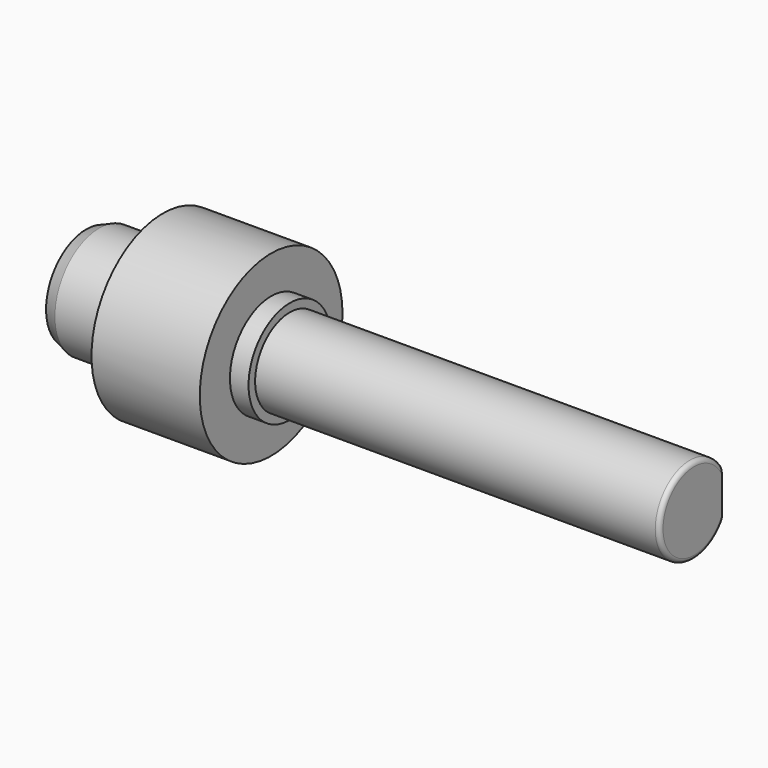
from build123d import *

# Parameters (mm, degrees)
F0_R      = 3.2512
F1_DEPTH  = 4.4958
F2_R      = 5.2324
F3_DEPTH  = 6.35
F4_R      = 3.0226
F5_DEPTH  = 1.0922
F6_R      = 2.54
F7_DEPTH  = 23.7236
F9_W      = 15.0368
F9_H      = 0.508
F10_DEPTH = 7.7734
F11_R     = 0.254
F12_R     = 3.2512
F13_DEPTH = 0.762
F14_R     = 2.9464
F15_DEPTH = 0.762


with BuildPart() as f1:
    # F0 (on Right) → F1 (new body)
    with BuildSketch(Plane.YZ):
        Circle(F0_R)
    extrude(amount=F1_DEPTH)

    # F2 (on face) → F3 (join)
    with BuildSketch(Plane.YZ.offset(4.4958)):
        Circle(F2_R)
    extrude(amount=F3_DEPTH)

    # F4 (on face) → F5 (join)
    with BuildSketch(Plane.YZ.offset(10.8458)):
        Circle(F4_R)
    extrude(amount=F5_DEPTH)

    # F6 (on face) → F7 (join)
    with BuildSketch(Plane.YZ.offset(11.938)):
        Circle(F6_R)
    extrude(amount=F7_DEPTH)

    # F9 (on offset) → F10 (cut, through all)
    with BuildSketch(Plane.XY.offset(2.54)):
        with Locations((28.1432, 2.286)):
            Rectangle(F9_W, F9_H)
    extrude(amount=-F10_DEPTH, mode=Mode.SUBTRACT)

    # F11
    f11_edges = [f1.edges().sort_by_distance(p)[0] for p in [
        (35.6616, -2.54, 0),
    ]]
    fillet(f11_edges, radius=F11_R)

    # F12 (on face) → F13 (cut)
    with BuildSketch(Plane(origin=(0, 0, 0), x_dir=(0, -1, 0), z_dir=(-1, 0, 0))):
        Circle(F12_R)
    extrude(amount=-F13_DEPTH, mode=Mode.SUBTRACT)

    # F14 (on face) → F15 (join)
    with BuildSketch(Plane(origin=(0.762, 0, 0), x_dir=(0, -1, 0), z_dir=(-1, 0, 0))):
        Circle(F14_R)
    extrude(amount=F15_DEPTH)

    # F16 (on Front) → F17 (revolve)
    with BuildSketch(Plane.XZ):
        Polygon((0, 2.9464), (0.762, 2.9464), (0.762, 3.2512), align=None)
    revolve(axis=Axis((0.381, 0, 0), (1, 0, 0)))


solid = f1.part
